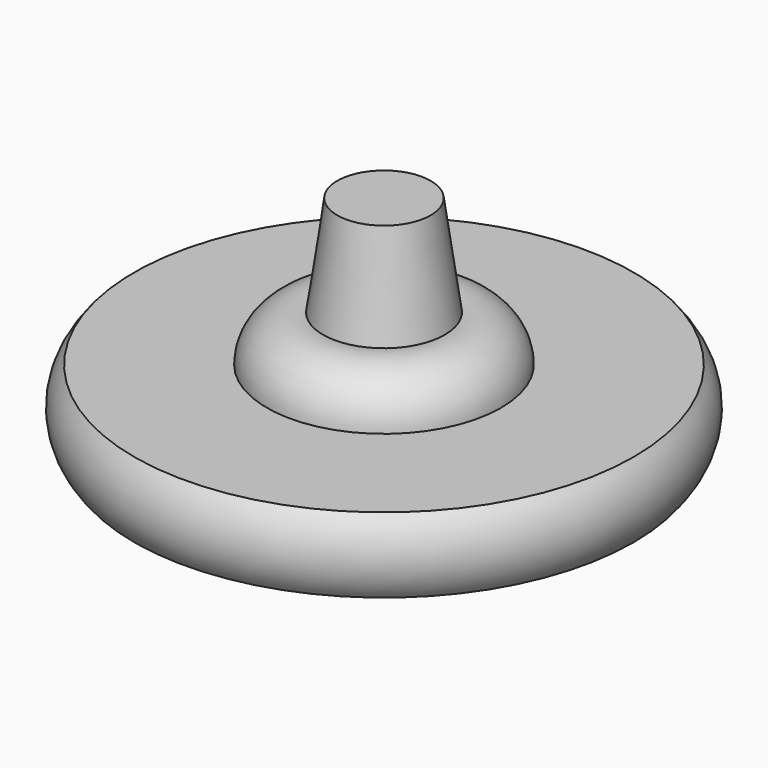
from build123d import *


with BuildPart() as f1:
    # F0 (on Front) → F1 (revolve)
    with BuildSketch(Plane.XZ):
        with BuildLine():
            Line((5.842, 31.233794), (0, 31.233794))
            Line((0, 31.233794), (0, -1.786206))
            Line((0, -1.786206), (3.552855, -1.786206))
            Line((3.552855, -1.786206), (5.461888, 8.192832))
            Line((5.461888, 8.192832), (25.889348, 8.192832))
            Line((25.889348, 8.192832), (22.502976, 3.495608))
            Line((22.502976, 3.495608), (31.242, 3.495608))
            ThreePointArc((31.242, 3.495608), (33.01078, 8.192832), (31.242, 12.890056))
            Line((31.242, 12.890056), (14.637859, 12.890056))
            ThreePointArc((14.637859, 12.890056), (12.486728, 17.426248), (7.62, 18.65887))
            Line((7.62, 18.65887), (5.842, 31.233794))
        make_face()
    revolve(axis=Axis((0, 0, 14.723794), (0, 0, 1)))


solid = f1.part
